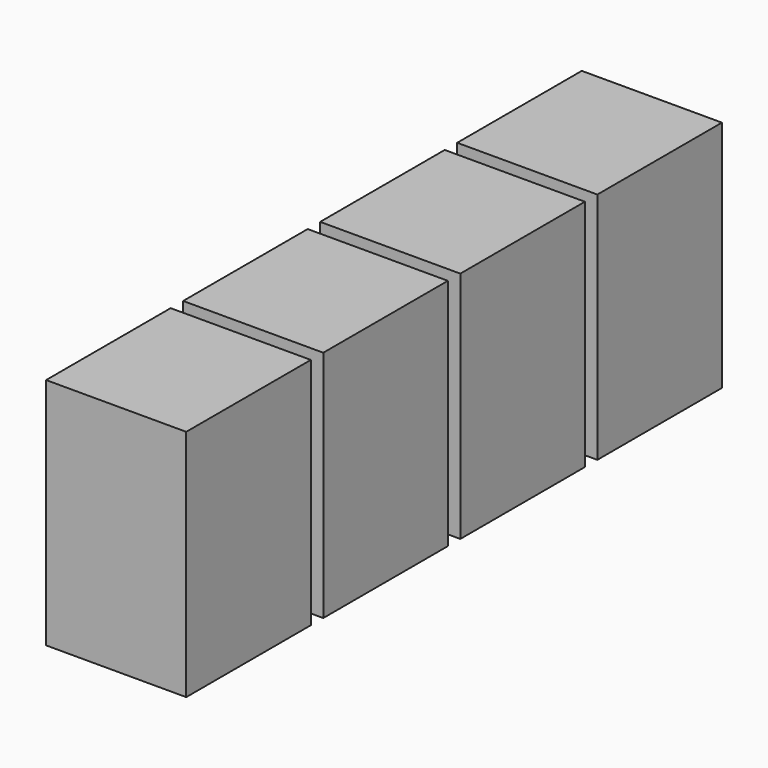
from build123d import *

# Parameters (mm, degrees)
BOX069_W     = 9
BOX069_H     = 10
BOX069_DEPTH = 15
BOX070_W     = 9
BOX070_H     = 10
BOX070_DEPTH = 15
BOX071_W     = 9
BOX071_H     = 10
BOX071_DEPTH = 15
BOX068_W     = 9
BOX068_H     = 10
BOX068_DEPTH = 15


with BuildPart() as cube042:
    # Box069 → Box069 (new body)
    with BuildSketch(Plane(origin=(2.5, 24, 0), x_dir=(1, 0, 0), z_dir=(0, 0, 1))):
        with Locations((4.5, 5)):
            Rectangle(BOX069_W, BOX069_H)
    extrude(amount=BOX069_DEPTH)


with BuildPart() as cube043:
    # Box070 → Box070 (new body)
    with BuildSketch(Plane(origin=(2.5, 35, 0), x_dir=(1, 0, 0), z_dir=(0, 0, 1))):
        with Locations((4.5, 5)):
            Rectangle(BOX070_W, BOX070_H)
    extrude(amount=BOX070_DEPTH)


with BuildPart() as cube044:
    # Box071 → Box071 (new body)
    with BuildSketch(Plane(origin=(2.5, 46, 0), x_dir=(1, 0, 0), z_dir=(0, 0, 1))):
        with Locations((4.5, 5)):
            Rectangle(BOX071_W, BOX071_H)
    extrude(amount=BOX071_DEPTH)


with BuildPart() as inputs:
    # Box068 → Box068 (new body)
    with BuildSketch(Plane(origin=(2.5, 13, 0), x_dir=(1, 0, 0), z_dir=(0, 0, 1))):
        with Locations((4.5, 5)):
            Rectangle(BOX068_W, BOX068_H)
    extrude(amount=BOX068_DEPTH)

    # Fusion044: union Cube042, Cube043, Cube044
    add(cube042.part)
    add(cube043.part)
    add(cube044.part)


solid = inputs.part
